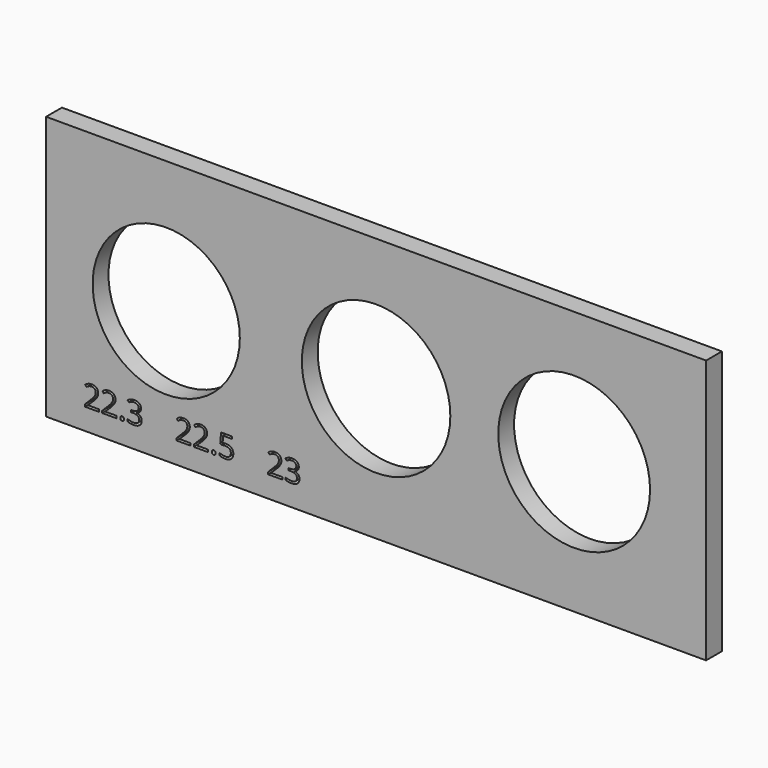
from build123d import *

# Parameters (mm, degrees)
F0_W     = 100
F0_H     = 40
F0_R     = 11.15
F0_R_2   = 11.25
F0_R_3   = 11.5
F1_DEPTH = 3


with BuildPart() as f1:
    # F0 (on Front) → F1 (new body)
    with BuildSketch(Plane.XZ):
        Rectangle(F0_W, F0_H)
        with BuildLine():
            add(Edge.make_bspline(
                [(-38.6742359697, -16.7565155862), (-38.7492447917, -16.6858134908), (-38.7492447917, -16.5243112424)],
                knots=[0, 0, 0, 1, 1, 1], degree=2))
            add(Edge.make_bspline(
                [(-38.7492447917, -16.5243112424), (-38.7492447917, -16.3735758106), (-38.6806960596, -16.2964136252)],
                knots=[0, 0, 0, 1, 1, 1], degree=2))
            add(Edge.make_bspline(
                [(-38.6806960596, -16.2964136252), (-38.6121473275, -16.2192514399), (-38.4843811044, -16.2192514399)],
                knots=[0, 0, 0, 1, 1, 1], degree=2))
            add(Edge.make_bspline(
                [(-38.4843811044, -16.2192514399), (-38.3544615179, -16.2192514399), (-38.2816060592, -16.2964136252)],
                knots=[0, 0, 0, 1, 1, 1], degree=2))
            add(Edge.make_bspline(
                [(-38.2816060592, -16.2964136252), (-38.2087506005, -16.3735758106), (-38.2087506005, -16.5243112424)],
                knots=[0, 0, 0, 1, 1, 1], degree=2))
            add(Edge.make_bspline(
                [(-38.2087506005, -16.5243112424), (-38.2087506005, -16.6700221598), (-38.2826827408, -16.7486199207)],
                knots=[0, 0, 0, 1, 1, 1], degree=2))
            add(Edge.make_bspline(
                [(-38.2826827408, -16.7486199207), (-38.3566148812, -16.8272176816), (-38.4843811044, -16.8272176816)],
                knots=[0, 0, 0, 1, 1, 1], degree=2))
            add(Edge.make_bspline(
                [(-38.4843811044, -16.8272176816), (-38.5992271476, -16.8272176816), (-38.6742359697, -16.7565155862)],
                knots=[0, 0, 0, 1, 1, 1], degree=2))
        make_face(mode=Mode.SUBTRACT)
        with BuildLine():
            Line((-41.9627806405, -16.4166430768), (-41.9627806405, -16.7618989944))
            Line((-41.9627806405, -16.7618989944), (-44.1182973154, -16.7618989944))
            Line((-44.1182973154, -16.7618989944), (-44.1182973154, -16.441047861))
            Line((-44.1182973154, -16.441047861), (-43.2547986275, -15.5732424464))
            add(Edge.make_bspline(
                [(-43.2547986275, -15.5732424464), (-42.8600153537, -15.1734346582), (-42.7344024938, -15.0029600627)],
                knots=[0, 0, 0, 1, 1, 1], degree=2))
            add(Edge.make_bspline(
                [(-42.7344024938, -15.0029600627), (-42.608789634, -14.8324854672), (-42.545983204, -14.6709832188)],
                knots=[0, 0, 0, 1, 1, 1], degree=2))
            add(Edge.make_bspline(
                [(-42.545983204, -14.6709832188), (-42.4831767741, -14.5094809704), (-42.4831767741, -14.3235739379)],
                knots=[0, 0, 0, 1, 1, 1], degree=2))
            add(Edge.make_bspline(
                [(-42.4831767741, -14.3235739379), (-42.4831767741, -14.0608636138), (-42.6425256592, -13.907257031)],
                knots=[0, 0, 0, 1, 1, 1], degree=2))
            add(Edge.make_bspline(
                [(-42.6425256592, -13.907257031), (-42.8018745442, -13.7536504481), (-43.0846829258, -13.7536504481)],
                knots=[0, 0, 0, 1, 1, 1], degree=2))
            add(Edge.make_bspline(
                [(-43.0846829258, -13.7536504481), (-43.2885346527, -13.7536504481), (-43.4715705342, -13.8211224985)],
                knots=[0, 0, 0, 1, 1, 1], degree=2))
            add(Edge.make_bspline(
                [(-43.4715705342, -13.8211224985), (-43.6546064157, -13.8885945489), (-43.8785562001, -14.0658881282)],
                knots=[0, 0, 0, 1, 1, 1], degree=2))
            Line((-43.8785562001, -14.0658881282), (-44.075947837, -13.8125090452))
            add(Edge.make_bspline(
                [(-44.075947837, -13.8125090452), (-43.6230237538, -13.4356704657), (-43.0889896525, -13.4356704657)],
                knots=[0, 0, 0, 1, 1, 1], degree=2))
            add(Edge.make_bspline(
                [(-43.0889896525, -13.4356704657), (-42.6267343282, -13.4356704657), (-42.3643828981, -13.6721815361)],
                knots=[0, 0, 0, 1, 1, 1], degree=2))
            add(Edge.make_bspline(
                [(-42.3643828981, -13.6721815361), (-42.1020314679, -13.9086926065), (-42.1020314679, -14.3077826069)],
                knots=[0, 0, 0, 1, 1, 1], degree=2))
            add(Edge.make_bspline(
                [(-42.1020314679, -14.3077826069), (-42.1020314679, -14.6200202871), (-42.277171684, -14.9250800896)],
                knots=[0, 0, 0, 1, 1, 1], degree=2))
            add(Edge.make_bspline(
                [(-42.277171684, -14.9250800896), (-42.4523119, -15.2301398921), (-42.9317941307, -15.6967019429)],
                knots=[0, 0, 0, 1, 1, 1], degree=2))
            Line((-42.9317941307, -15.6967019429), (-43.6495819013, -16.3986983825))
            Line((-43.6495819013, -16.3986983825), (-43.6495819013, -16.4166430768))
            Line((-43.6495819013, -16.4166430768), (-41.9627806405, -16.4166430768))
        make_face(mode=Mode.SUBTRACT)
        with BuildLine():
            Line((-39.336395188, -16.4166430768), (-39.336395188, -16.7618989944))
            Line((-39.336395188, -16.7618989944), (-41.491911863, -16.7618989944))
            Line((-41.491911863, -16.7618989944), (-41.491911863, -16.441047861))
            Line((-41.491911863, -16.441047861), (-40.628413175, -15.5732424464))
            add(Edge.make_bspline(
                [(-40.628413175, -15.5732424464), (-40.2336299012, -15.1734346582), (-40.1080170413, -15.0029600627)],
                knots=[0, 0, 0, 1, 1, 1], degree=2))
            add(Edge.make_bspline(
                [(-40.1080170413, -15.0029600627), (-39.9824041815, -14.8324854672), (-39.9195977516, -14.6709832188)],
                knots=[0, 0, 0, 1, 1, 1], degree=2))
            add(Edge.make_bspline(
                [(-39.9195977516, -14.6709832188), (-39.8567913217, -14.5094809704), (-39.8567913217, -14.3235739379)],
                knots=[0, 0, 0, 1, 1, 1], degree=2))
            add(Edge.make_bspline(
                [(-39.8567913217, -14.3235739379), (-39.8567913217, -14.0608636138), (-40.0161402067, -13.907257031)],
                knots=[0, 0, 0, 1, 1, 1], degree=2))
            add(Edge.make_bspline(
                [(-40.0161402067, -13.907257031), (-40.1754890918, -13.7536504481), (-40.4582974734, -13.7536504481)],
                knots=[0, 0, 0, 1, 1, 1], degree=2))
            add(Edge.make_bspline(
                [(-40.4582974734, -13.7536504481), (-40.6621492002, -13.7536504481), (-40.8451850817, -13.8211224985)],
                knots=[0, 0, 0, 1, 1, 1], degree=2))
            add(Edge.make_bspline(
                [(-40.8451850817, -13.8211224985), (-41.0282209632, -13.8885945489), (-41.2521707476, -14.0658881282)],
                knots=[0, 0, 0, 1, 1, 1], degree=2))
            Line((-41.2521707476, -14.0658881282), (-41.4495623845, -13.8125090452))
            add(Edge.make_bspline(
                [(-41.4495623845, -13.8125090452), (-40.9966383013, -13.4356704657), (-40.4626042, -13.4356704657)],
                knots=[0, 0, 0, 1, 1, 1], degree=2))
            add(Edge.make_bspline(
                [(-40.4626042, -13.4356704657), (-40.0003488758, -13.4356704657), (-39.7379974456, -13.6721815361)],
                knots=[0, 0, 0, 1, 1, 1], degree=2))
            add(Edge.make_bspline(
                [(-39.7379974456, -13.6721815361), (-39.4756460155, -13.9086926065), (-39.4756460155, -14.3077826069)],
                knots=[0, 0, 0, 1, 1, 1], degree=2))
            add(Edge.make_bspline(
                [(-39.4756460155, -14.3077826069), (-39.4756460155, -14.6200202871), (-39.6507862315, -14.9250800896)],
                knots=[0, 0, 0, 1, 1, 1], degree=2))
            add(Edge.make_bspline(
                [(-39.6507862315, -14.9250800896), (-39.8259264475, -15.2301398921), (-40.3054086783, -15.6967019429)],
                knots=[0, 0, 0, 1, 1, 1], degree=2))
            Line((-40.3054086783, -15.6967019429), (-41.0231964488, -16.3986983825))
            Line((-41.0231964488, -16.3986983825), (-41.0231964488, -16.4166430768))
            Line((-41.0231964488, -16.4166430768), (-39.336395188, -16.4166430768))
        make_face(mode=Mode.SUBTRACT)
        with BuildLine():
            add(Edge.make_bspline(
                [(-35.8759403462, -13.6542368418), (-35.6110766588, -13.872803218), (-35.6110766588, -14.2539485241)],
                knots=[0, 0, 0, 1, 1, 1], degree=2))
            add(Edge.make_bspline(
                [(-35.6110766588, -14.2539485241), (-35.6110766588, -14.5683395676), (-35.7872935565, -14.7678845678)],
                knots=[0, 0, 0, 1, 1, 1], degree=2))
            add(Edge.make_bspline(
                [(-35.7872935565, -14.7678845678), (-35.9635104542, -14.9674295681), (-36.2865149509, -15.0349016185)],
                knots=[0, 0, 0, 1, 1, 1], degree=2))
            Line((-36.2865149509, -15.0349016185), (-36.2865149509, -15.0528463128))
            add(Edge.make_bspline(
                [(-36.2865149509, -15.0528463128), (-35.8917316771, -15.1016558812), (-35.701159024, -15.3037131386)],
                knots=[0, 0, 0, 1, 1, 1], degree=2))
            add(Edge.make_bspline(
                [(-35.701159024, -15.3037131386), (-35.5105863709, -15.505770396), (-35.5105863709, -15.8330816193)],
                knots=[0, 0, 0, 1, 1, 1], degree=2))
            add(Edge.make_bspline(
                [(-35.5105863709, -15.8330816193), (-35.5105863709, -16.3017970335), (-35.835744231, -16.5544583288)],
                knots=[0, 0, 0, 1, 1, 1], degree=2))
            add(Edge.make_bspline(
                [(-35.835744231, -16.5544583288), (-36.1609020911, -16.807119624), (-36.7595370917, -16.807119624)],
                knots=[0, 0, 0, 1, 1, 1], degree=2))
            add(Edge.make_bspline(
                [(-36.7595370917, -16.807119624), (-37.0200940524, -16.807119624), (-37.2365070652, -16.7676412966)],
                knots=[0, 0, 0, 1, 1, 1], degree=2))
            add(Edge.make_bspline(
                [(-37.2365070652, -16.7676412966), (-37.4529200781, -16.7281629692), (-37.6567718049, -16.6298260447)],
                knots=[0, 0, 0, 1, 1, 1], degree=2))
            Line((-37.6567718049, -16.6298260447), (-37.6567718049, -16.275238886))
            add(Edge.make_bspline(
                [(-37.6567718049, -16.275238886), (-37.443588837, -16.3807536883), (-37.2024121461, -16.4356644527)],
                knots=[0, 0, 0, 1, 1, 1], degree=2))
            add(Edge.make_bspline(
                [(-37.2024121461, -16.4356644527), (-36.9612354552, -16.4905752172), (-36.7458991241, -16.4905752172)],
                knots=[0, 0, 0, 1, 1, 1], degree=2))
            add(Edge.make_bspline(
                [(-36.7458991241, -16.4905752172), (-35.8960384037, -16.4905752172), (-35.8960384037, -15.8244681661)],
                knots=[0, 0, 0, 1, 1, 1], degree=2))
            add(Edge.make_bspline(
                [(-35.8960384037, -15.8244681661), (-35.8960384037, -15.227268741), (-36.8334692321, -15.227268741)],
                knots=[0, 0, 0, 1, 1, 1], degree=2))
            Line((-36.8334692321, -15.227268741), (-37.1564737288, -15.227268741))
            Line((-37.1564737288, -15.227268741), (-37.1564737288, -14.9071353953))
            Line((-37.1564737288, -14.9071353953), (-36.8291625055, -14.9071353953))
            add(Edge.make_bspline(
                [(-36.8291625055, -14.9071353953), (-36.445863836, -14.9071353953), (-36.2215551577, -14.7377374815)],
                knots=[0, 0, 0, 1, 1, 1], degree=2))
            add(Edge.make_bspline(
                [(-36.2215551577, -14.7377374815), (-35.9972464794, -14.5683395676), (-35.9972464794, -14.2675864918)],
                knots=[0, 0, 0, 1, 1, 1], degree=2))
            add(Edge.make_bspline(
                [(-35.9972464794, -14.2675864918), (-35.9972464794, -14.0278453764), (-36.1619787727, -13.8907479122)],
                knots=[0, 0, 0, 1, 1, 1], degree=2))
            add(Edge.make_bspline(
                [(-36.1619787727, -13.8907479122), (-36.3267110661, -13.7536504481), (-36.6095194477, -13.7536504481)],
                knots=[0, 0, 0, 1, 1, 1], degree=2))
            add(Edge.make_bspline(
                [(-36.6095194477, -13.7536504481), (-36.8248557788, -13.7536504481), (-37.0154284319, -13.8121501514)],
                knots=[0, 0, 0, 1, 1, 1], degree=2))
            add(Edge.make_bspline(
                [(-37.0154284319, -13.8121501514), (-37.206001085, -13.8706498547), (-37.4507667148, -14.0278453764)],
                knots=[0, 0, 0, 1, 1, 1], degree=2))
            Line((-37.4507667148, -14.0278453764), (-37.6388271106, -13.7766196567))
            add(Edge.make_bspline(
                [(-37.6388271106, -13.7766196567), (-37.4371287471, -13.6172707716), (-37.1737006353, -13.5264706187)],
                knots=[0, 0, 0, 1, 1, 1], degree=2))
            add(Edge.make_bspline(
                [(-37.1737006353, -13.5264706187), (-36.9102725235, -13.4356704657), (-36.6181329009, -13.4356704657)],
                knots=[0, 0, 0, 1, 1, 1], degree=2))
            add(Edge.make_bspline(
                [(-36.6181329009, -13.4356704657), (-36.1408040335, -13.4356704657), (-35.8759403462, -13.6542368418)],
                knots=[0, 0, 0, 1, 1, 1], degree=2))
        make_face(mode=Mode.SUBTRACT)
        with BuildLine():
            Line((-28.0865074601, -16.4166430768), (-28.0865074601, -16.7618989944))
            Line((-28.0865074601, -16.7618989944), (-30.2420241351, -16.7618989944))
            Line((-30.2420241351, -16.7618989944), (-30.2420241351, -16.441047861))
            Line((-30.2420241351, -16.441047861), (-29.3785254471, -15.5732424464))
            add(Edge.make_bspline(
                [(-29.3785254471, -15.5732424464), (-28.9837421733, -15.1734346582), (-28.8581293134, -15.0029600627)],
                knots=[0, 0, 0, 1, 1, 1], degree=2))
            add(Edge.make_bspline(
                [(-28.8581293134, -15.0029600627), (-28.7325164536, -14.8324854672), (-28.6697100237, -14.6709832188)],
                knots=[0, 0, 0, 1, 1, 1], degree=2))
            add(Edge.make_bspline(
                [(-28.6697100237, -14.6709832188), (-28.6069035938, -14.5094809704), (-28.6069035938, -14.3235739379)],
                knots=[0, 0, 0, 1, 1, 1], degree=2))
            add(Edge.make_bspline(
                [(-28.6069035938, -14.3235739379), (-28.6069035938, -14.0608636138), (-28.7662524788, -13.907257031)],
                knots=[0, 0, 0, 1, 1, 1], degree=2))
            add(Edge.make_bspline(
                [(-28.7662524788, -13.907257031), (-28.9256013639, -13.7536504481), (-29.2084097455, -13.7536504481)],
                knots=[0, 0, 0, 1, 1, 1], degree=2))
            add(Edge.make_bspline(
                [(-29.2084097455, -13.7536504481), (-29.4122614723, -13.7536504481), (-29.5952973538, -13.8211224985)],
                knots=[0, 0, 0, 1, 1, 1], degree=2))
            add(Edge.make_bspline(
                [(-29.5952973538, -13.8211224985), (-29.7783332353, -13.8885945489), (-30.0022830197, -14.0658881282)],
                knots=[0, 0, 0, 1, 1, 1], degree=2))
            Line((-30.0022830197, -14.0658881282), (-30.1996746566, -13.8125090452))
            add(Edge.make_bspline(
                [(-30.1996746566, -13.8125090452), (-29.7467505734, -13.4356704657), (-29.2127164721, -13.4356704657)],
                knots=[0, 0, 0, 1, 1, 1], degree=2))
            add(Edge.make_bspline(
                [(-29.2127164721, -13.4356704657), (-28.7504611479, -13.4356704657), (-28.4881097177, -13.6721815361)],
                knots=[0, 0, 0, 1, 1, 1], degree=2))
            add(Edge.make_bspline(
                [(-28.4881097177, -13.6721815361), (-28.2257582876, -13.9086926065), (-28.2257582876, -14.3077826069)],
                knots=[0, 0, 0, 1, 1, 1], degree=2))
            add(Edge.make_bspline(
                [(-28.2257582876, -14.3077826069), (-28.2257582876, -14.6200202871), (-28.4008985036, -14.9250800896)],
                knots=[0, 0, 0, 1, 1, 1], degree=2))
            add(Edge.make_bspline(
                [(-28.4008985036, -14.9250800896), (-28.5760387196, -15.2301398921), (-29.0555209504, -15.6967019429)],
                knots=[0, 0, 0, 1, 1, 1], degree=2))
            Line((-29.0555209504, -15.6967019429), (-29.7733087209, -16.3986983825))
            Line((-29.7733087209, -16.3986983825), (-29.7733087209, -16.4166430768))
            Line((-29.7733087209, -16.4166430768), (-28.0865074601, -16.4166430768))
        make_face(mode=Mode.SUBTRACT)
        with BuildLine():
            Line((-25.4601220076, -16.4166430768), (-25.4601220076, -16.7618989944))
            Line((-25.4601220076, -16.7618989944), (-27.6156386826, -16.7618989944))
            Line((-27.6156386826, -16.7618989944), (-27.6156386826, -16.441047861))
            Line((-27.6156386826, -16.441047861), (-26.7521399946, -15.5732424464))
            add(Edge.make_bspline(
                [(-26.7521399946, -15.5732424464), (-26.3573567208, -15.1734346582), (-26.231743861, -15.0029600627)],
                knots=[0, 0, 0, 1, 1, 1], degree=2))
            add(Edge.make_bspline(
                [(-26.231743861, -15.0029600627), (-26.1061310011, -14.8324854672), (-26.0433245712, -14.6709832188)],
                knots=[0, 0, 0, 1, 1, 1], degree=2))
            add(Edge.make_bspline(
                [(-26.0433245712, -14.6709832188), (-25.9805181413, -14.5094809704), (-25.9805181413, -14.3235739379)],
                knots=[0, 0, 0, 1, 1, 1], degree=2))
            add(Edge.make_bspline(
                [(-25.9805181413, -14.3235739379), (-25.9805181413, -14.0608636138), (-26.1398670264, -13.907257031)],
                knots=[0, 0, 0, 1, 1, 1], degree=2))
            add(Edge.make_bspline(
                [(-26.1398670264, -13.907257031), (-26.2992159114, -13.7536504481), (-26.582024293, -13.7536504481)],
                knots=[0, 0, 0, 1, 1, 1], degree=2))
            add(Edge.make_bspline(
                [(-26.582024293, -13.7536504481), (-26.7858760199, -13.7536504481), (-26.9689119013, -13.8211224985)],
                knots=[0, 0, 0, 1, 1, 1], degree=2))
            add(Edge.make_bspline(
                [(-26.9689119013, -13.8211224985), (-27.1519477828, -13.8885945489), (-27.3758975673, -14.0658881282)],
                knots=[0, 0, 0, 1, 1, 1], degree=2))
            Line((-27.3758975673, -14.0658881282), (-27.5732892042, -13.8125090452))
            add(Edge.make_bspline(
                [(-27.5732892042, -13.8125090452), (-27.1203651209, -13.4356704657), (-26.5863310196, -13.4356704657)],
                knots=[0, 0, 0, 1, 1, 1], degree=2))
            add(Edge.make_bspline(
                [(-26.5863310196, -13.4356704657), (-26.1240756954, -13.4356704657), (-25.8617242653, -13.6721815361)],
                knots=[0, 0, 0, 1, 1, 1], degree=2))
            add(Edge.make_bspline(
                [(-25.8617242653, -13.6721815361), (-25.5993728351, -13.9086926065), (-25.5993728351, -14.3077826069)],
                knots=[0, 0, 0, 1, 1, 1], degree=2))
            add(Edge.make_bspline(
                [(-25.5993728351, -14.3077826069), (-25.5993728351, -14.6200202871), (-25.7745130511, -14.9250800896)],
                knots=[0, 0, 0, 1, 1, 1], degree=2))
            add(Edge.make_bspline(
                [(-25.7745130511, -14.9250800896), (-25.9496532672, -15.2301398921), (-26.4291354979, -15.6967019429)],
                knots=[0, 0, 0, 1, 1, 1], degree=2))
            Line((-26.4291354979, -15.6967019429), (-27.1469232684, -16.3986983825))
            Line((-27.1469232684, -16.3986983825), (-27.1469232684, -16.4166430768))
            Line((-27.1469232684, -16.4166430768), (-25.4601220076, -16.4166430768))
        make_face(mode=Mode.SUBTRACT)
        with BuildLine():
            add(Edge.make_bspline(
                [(-24.7979627893, -16.7565155862), (-24.8729716113, -16.6858134908), (-24.8729716113, -16.5243112424)],
                knots=[0, 0, 0, 1, 1, 1], degree=2))
            add(Edge.make_bspline(
                [(-24.8729716113, -16.5243112424), (-24.8729716113, -16.3735758106), (-24.8044228792, -16.2964136252)],
                knots=[0, 0, 0, 1, 1, 1], degree=2))
            add(Edge.make_bspline(
                [(-24.8044228792, -16.2964136252), (-24.7358741472, -16.2192514399), (-24.608107924, -16.2192514399)],
                knots=[0, 0, 0, 1, 1, 1], degree=2))
            add(Edge.make_bspline(
                [(-24.608107924, -16.2192514399), (-24.4781883375, -16.2192514399), (-24.4053328788, -16.2964136252)],
                knots=[0, 0, 0, 1, 1, 1], degree=2))
            add(Edge.make_bspline(
                [(-24.4053328788, -16.2964136252), (-24.3324774201, -16.3735758106), (-24.3324774201, -16.5243112424)],
                knots=[0, 0, 0, 1, 1, 1], degree=2))
            add(Edge.make_bspline(
                [(-24.3324774201, -16.5243112424), (-24.3324774201, -16.6700221598), (-24.4064095605, -16.7486199207)],
                knots=[0, 0, 0, 1, 1, 1], degree=2))
            add(Edge.make_bspline(
                [(-24.4064095605, -16.7486199207), (-24.4803417008, -16.8272176816), (-24.608107924, -16.8272176816)],
                knots=[0, 0, 0, 1, 1, 1], degree=2))
            add(Edge.make_bspline(
                [(-24.608107924, -16.8272176816), (-24.7229539673, -16.8272176816), (-24.7979627893, -16.7565155862)],
                knots=[0, 0, 0, 1, 1, 1], degree=2))
        make_face(mode=Mode.SUBTRACT)
        with BuildLine():
            add(Edge.make_bspline(
                [(-23.2557957643, -14.8102340463), (-22.9981099546, -14.7585533268), (-22.7418597206, -14.7585533268)],
                knots=[0, 0, 0, 1, 1, 1], degree=2))
            add(Edge.make_bspline(
                [(-22.7418597206, -14.7585533268), (-22.2236169502, -14.7585533268), (-21.9264528132, -15.0155213487)],
                knots=[0, 0, 0, 1, 1, 1], degree=2))
            add(Edge.make_bspline(
                [(-21.9264528132, -15.0155213487), (-21.6292886762, -15.2724893705), (-21.6292886762, -15.7189533638)],
                knots=[0, 0, 0, 1, 1, 1], degree=2))
            add(Edge.make_bspline(
                [(-21.6292886762, -15.7189533638), (-21.6292886762, -16.2278648932), (-21.9533698546, -16.5174922586)],
                knots=[0, 0, 0, 1, 1, 1], degree=2))
            add(Edge.make_bspline(
                [(-21.9533698546, -16.5174922586), (-22.277451033, -16.807119624), (-22.8473745228, -16.807119624)],
                knots=[0, 0, 0, 1, 1, 1], degree=2))
            add(Edge.make_bspline(
                [(-22.8473745228, -16.807119624), (-23.4015066817, -16.807119624), (-23.6929285165, -16.6298260447)],
                knots=[0, 0, 0, 1, 1, 1], degree=2))
            Line((-23.6929285165, -16.6298260447), (-23.6929285165, -16.2709321594))
            add(Edge.make_bspline(
                [(-23.6929285165, -16.2709321594), (-23.5364507826, -16.3714224473), (-23.3031697571, -16.4288454689)],
                knots=[0, 0, 0, 1, 1, 1], degree=2))
            add(Edge.make_bspline(
                [(-23.3031697571, -16.4288454689), (-23.0698887317, -16.4862684906), (-22.8430677962, -16.4862684906)],
                knots=[0, 0, 0, 1, 1, 1], degree=2))
            add(Edge.make_bspline(
                [(-22.8430677962, -16.4862684906), (-22.4482845224, -16.4862684906), (-22.2297181463, -16.3000025641)],
                knots=[0, 0, 0, 1, 1, 1], degree=2))
            add(Edge.make_bspline(
                [(-22.2297181463, -16.3000025641), (-22.0111517701, -16.1137366376), (-22.0111517701, -15.7613028423)],
                knots=[0, 0, 0, 1, 1, 1], degree=2))
            add(Edge.make_bspline(
                [(-22.0111517701, -15.7613028423), (-22.0111517701, -15.0750977336), (-22.8516812494, -15.0750977336)],
                knots=[0, 0, 0, 1, 1, 1], degree=2))
            add(Edge.make_bspline(
                [(-22.8516812494, -15.0750977336), (-23.0648642173, -15.0750977336), (-23.4216047393, -15.1404164208)],
                knots=[0, 0, 0, 1, 1, 1], degree=2))
            Line((-23.4216047393, -15.1404164208), (-23.6146896495, -15.0169569242))
            Line((-23.6146896495, -15.0169569242), (-23.491230153, -13.4823266708))
            Line((-23.491230153, -13.4823266708), (-21.8604163383, -13.4823266708))
            Line((-21.8604163383, -13.4823266708), (-21.8604163383, -13.8254292251))
            Line((-21.8604163383, -13.8254292251), (-23.1725323829, -13.8254292251))
            Line((-23.1725323829, -13.8254292251), (-23.2557957643, -14.8102340463))
        make_face(mode=Mode.SUBTRACT)
        with BuildLine():
            Line((-14.2102342797, -16.4166430768), (-14.2102342797, -16.7618989944))
            Line((-14.2102342797, -16.7618989944), (-16.3657509547, -16.7618989944))
            Line((-16.3657509547, -16.7618989944), (-16.3657509547, -16.441047861))
            Line((-16.3657509547, -16.441047861), (-15.5022522667, -15.5732424464))
            add(Edge.make_bspline(
                [(-15.5022522667, -15.5732424464), (-15.1074689929, -15.1734346582), (-14.9818561331, -15.0029600627)],
                knots=[0, 0, 0, 1, 1, 1], degree=2))
            add(Edge.make_bspline(
                [(-14.9818561331, -15.0029600627), (-14.8562432732, -14.8324854672), (-14.7934368433, -14.6709832188)],
                knots=[0, 0, 0, 1, 1, 1], degree=2))
            add(Edge.make_bspline(
                [(-14.7934368433, -14.6709832188), (-14.7306304134, -14.5094809704), (-14.7306304134, -14.3235739379)],
                knots=[0, 0, 0, 1, 1, 1], degree=2))
            add(Edge.make_bspline(
                [(-14.7306304134, -14.3235739379), (-14.7306304134, -14.0608636138), (-14.8899792985, -13.907257031)],
                knots=[0, 0, 0, 1, 1, 1], degree=2))
            add(Edge.make_bspline(
                [(-14.8899792985, -13.907257031), (-15.0493281835, -13.7536504481), (-15.3321365651, -13.7536504481)],
                knots=[0, 0, 0, 1, 1, 1], degree=2))
            add(Edge.make_bspline(
                [(-15.3321365651, -13.7536504481), (-15.535988292, -13.7536504481), (-15.7190241734, -13.8211224985)],
                knots=[0, 0, 0, 1, 1, 1], degree=2))
            add(Edge.make_bspline(
                [(-15.7190241734, -13.8211224985), (-15.9020600549, -13.8885945489), (-16.1260098394, -14.0658881282)],
                knots=[0, 0, 0, 1, 1, 1], degree=2))
            Line((-16.1260098394, -14.0658881282), (-16.3234014763, -13.8125090452))
            add(Edge.make_bspline(
                [(-16.3234014763, -13.8125090452), (-15.870477393, -13.4356704657), (-15.3364432917, -13.4356704657)],
                knots=[0, 0, 0, 1, 1, 1], degree=2))
            add(Edge.make_bspline(
                [(-15.3364432917, -13.4356704657), (-14.8741879675, -13.4356704657), (-14.6118365374, -13.6721815361)],
                knots=[0, 0, 0, 1, 1, 1], degree=2))
            add(Edge.make_bspline(
                [(-14.6118365374, -13.6721815361), (-14.3494851072, -13.9086926065), (-14.3494851072, -14.3077826069)],
                knots=[0, 0, 0, 1, 1, 1], degree=2))
            add(Edge.make_bspline(
                [(-14.3494851072, -14.3077826069), (-14.3494851072, -14.6200202871), (-14.5246253232, -14.9250800896)],
                knots=[0, 0, 0, 1, 1, 1], degree=2))
            add(Edge.make_bspline(
                [(-14.5246253232, -14.9250800896), (-14.6997655393, -15.2301398921), (-15.17924777, -15.6967019429)],
                knots=[0, 0, 0, 1, 1, 1], degree=2))
            Line((-15.17924777, -15.6967019429), (-15.8970355405, -16.3986983825))
            Line((-15.8970355405, -16.3986983825), (-15.8970355405, -16.4166430768))
            Line((-15.8970355405, -16.4166430768), (-14.2102342797, -16.4166430768))
        make_face(mode=Mode.SUBTRACT)
        with BuildLine():
            add(Edge.make_bspline(
                [(-11.9721720112, -13.6542368418), (-11.7073083238, -13.872803218), (-11.7073083238, -14.2539485241)],
                knots=[0, 0, 0, 1, 1, 1], degree=2))
            add(Edge.make_bspline(
                [(-11.7073083238, -14.2539485241), (-11.7073083238, -14.5683395676), (-11.8835252215, -14.7678845678)],
                knots=[0, 0, 0, 1, 1, 1], degree=2))
            add(Edge.make_bspline(
                [(-11.8835252215, -14.7678845678), (-12.0597421192, -14.9674295681), (-12.3827466159, -15.0349016185)],
                knots=[0, 0, 0, 1, 1, 1], degree=2))
            Line((-12.3827466159, -15.0349016185), (-12.3827466159, -15.0528463128))
            add(Edge.make_bspline(
                [(-12.3827466159, -15.0528463128), (-11.9879633421, -15.1016558812), (-11.797390689, -15.3037131386)],
                knots=[0, 0, 0, 1, 1, 1], degree=2))
            add(Edge.make_bspline(
                [(-11.797390689, -15.3037131386), (-11.6068180359, -15.505770396), (-11.6068180359, -15.8330816193)],
                knots=[0, 0, 0, 1, 1, 1], degree=2))
            add(Edge.make_bspline(
                [(-11.6068180359, -15.8330816193), (-11.6068180359, -16.3017970335), (-11.931975896, -16.5544583288)],
                knots=[0, 0, 0, 1, 1, 1], degree=2))
            add(Edge.make_bspline(
                [(-11.931975896, -16.5544583288), (-12.2571337561, -16.807119624), (-12.8557687567, -16.807119624)],
                knots=[0, 0, 0, 1, 1, 1], degree=2))
            add(Edge.make_bspline(
                [(-12.8557687567, -16.807119624), (-13.1163257174, -16.807119624), (-13.3327387302, -16.7676412966)],
                knots=[0, 0, 0, 1, 1, 1], degree=2))
            add(Edge.make_bspline(
                [(-13.3327387302, -16.7676412966), (-13.5491517431, -16.7281629692), (-13.7530034699, -16.6298260447)],
                knots=[0, 0, 0, 1, 1, 1], degree=2))
            Line((-13.7530034699, -16.6298260447), (-13.7530034699, -16.275238886))
            add(Edge.make_bspline(
                [(-13.7530034699, -16.275238886), (-13.539820502, -16.3807536883), (-13.2986438111, -16.4356644527)],
                knots=[0, 0, 0, 1, 1, 1], degree=2))
            add(Edge.make_bspline(
                [(-13.2986438111, -16.4356644527), (-13.0574671202, -16.4905752172), (-12.8421307891, -16.4905752172)],
                knots=[0, 0, 0, 1, 1, 1], degree=2))
            add(Edge.make_bspline(
                [(-12.8421307891, -16.4905752172), (-11.9922700687, -16.4905752172), (-11.9922700687, -15.8244681661)],
                knots=[0, 0, 0, 1, 1, 1], degree=2))
            add(Edge.make_bspline(
                [(-11.9922700687, -15.8244681661), (-11.9922700687, -15.227268741), (-12.9297008971, -15.227268741)],
                knots=[0, 0, 0, 1, 1, 1], degree=2))
            Line((-12.9297008971, -15.227268741), (-13.2527053938, -15.227268741))
            Line((-13.2527053938, -15.227268741), (-13.2527053938, -14.9071353953))
            Line((-13.2527053938, -14.9071353953), (-12.9253941705, -14.9071353953))
            add(Edge.make_bspline(
                [(-12.9253941705, -14.9071353953), (-12.542095501, -14.9071353953), (-12.3177868227, -14.7377374815)],
                knots=[0, 0, 0, 1, 1, 1], degree=2))
            add(Edge.make_bspline(
                [(-12.3177868227, -14.7377374815), (-12.0934781444, -14.5683395676), (-12.0934781444, -14.2675864918)],
                knots=[0, 0, 0, 1, 1, 1], degree=2))
            add(Edge.make_bspline(
                [(-12.0934781444, -14.2675864918), (-12.0934781444, -14.0278453764), (-12.2582104377, -13.8907479122)],
                knots=[0, 0, 0, 1, 1, 1], degree=2))
            add(Edge.make_bspline(
                [(-12.2582104377, -13.8907479122), (-12.4229427311, -13.7536504481), (-12.7057511127, -13.7536504481)],
                knots=[0, 0, 0, 1, 1, 1], degree=2))
            add(Edge.make_bspline(
                [(-12.7057511127, -13.7536504481), (-12.9210874438, -13.7536504481), (-13.1116600969, -13.8121501514)],
                knots=[0, 0, 0, 1, 1, 1], degree=2))
            add(Edge.make_bspline(
                [(-13.1116600969, -13.8121501514), (-13.30223275, -13.8706498547), (-13.5469983798, -14.0278453764)],
                knots=[0, 0, 0, 1, 1, 1], degree=2))
            Line((-13.5469983798, -14.0278453764), (-13.7350587756, -13.7766196567))
            add(Edge.make_bspline(
                [(-13.7350587756, -13.7766196567), (-13.5333604121, -13.6172707716), (-13.2699323003, -13.5264706187)],
                knots=[0, 0, 0, 1, 1, 1], degree=2))
            add(Edge.make_bspline(
                [(-13.2699323003, -13.5264706187), (-13.0065041885, -13.4356704657), (-12.7143645659, -13.4356704657)],
                knots=[0, 0, 0, 1, 1, 1], degree=2))
            add(Edge.make_bspline(
                [(-12.7143645659, -13.4356704657), (-12.2370356985, -13.4356704657), (-11.9721720112, -13.6542368418)],
                knots=[0, 0, 0, 1, 1, 1], degree=2))
        make_face(mode=Mode.SUBTRACT)
        with Locations((-31.7957699299, 0)):
            Circle(F0_R, mode=Mode.SUBTRACT)
        Circle(F0_R_2, mode=Mode.SUBTRACT)
        with Locations((30.0098583102, 0)):
            Circle(F0_R_3, mode=Mode.SUBTRACT)
    extrude(amount=F1_DEPTH)


solid = f1.part
